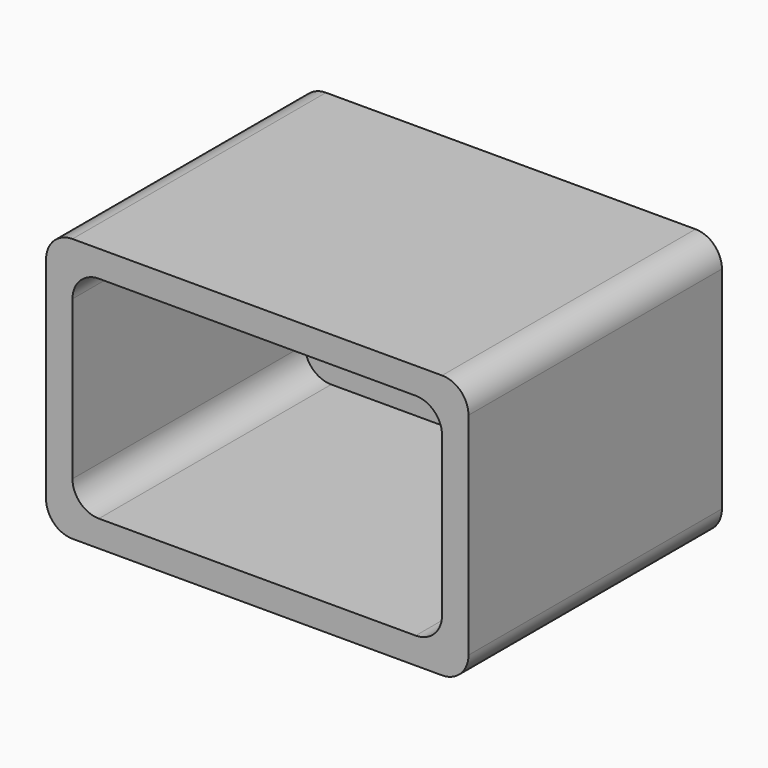
from build123d import *

# Parameters (mm, degrees)
F1_DEPTH = 76.2
F3_DEPTH = 69.85


with BuildPart() as f1:
    # F0 (on Front) → F1 (new body)
    with BuildSketch(Plane.XZ):
        with BuildLine():
            Line((19.371345, 24.161564), (-69.528655, 24.161564))
            ThreePointArc((-69.528655, 24.161564), (-74.018783, 22.301692), (-75.878655, 17.811564))
            Line((-75.878655, 17.811564), (-75.878655, -32.988436))
            ThreePointArc((-75.878655, -32.988436), (-74.018783, -37.478564), (-69.528655, -39.338436))
            Line((-69.528655, -39.338436), (19.371345, -39.338436))
            ThreePointArc((19.371345, -39.338436), (23.861473, -37.478564), (25.721345, -32.988436))
            Line((25.721345, -32.988436), (25.721345, 17.811564))
            ThreePointArc((25.721345, 17.811564), (23.861473, 22.301692), (19.371345, 24.161564))
        make_face()
    extrude(amount=-F1_DEPTH)

    # F2 (on face) → F3 (cut)
    with BuildSketch(Plane.XZ):
        with BuildLine():
            Line((13.021345, 17.811564), (-63.178655, 17.811564))
            ThreePointArc((-63.178655, 17.811564), (-67.668783, 15.951692), (-69.528655, 11.461564))
            Line((-69.528655, 11.461564), (-69.528655, -26.638436))
            ThreePointArc((-69.528655, -26.638436), (-67.668783, -31.128564), (-63.178655, -32.988436))
            Line((-63.178655, -32.988436), (13.021345, -32.988436))
            ThreePointArc((13.021345, -32.988436), (17.511473, -31.128564), (19.371345, -26.638436))
            Line((19.371345, -26.638436), (19.371345, 11.461564))
            ThreePointArc((19.371345, 11.461564), (17.511473, 15.951692), (13.021345, 17.811564))
        make_face()
    extrude(amount=-F3_DEPTH, mode=Mode.SUBTRACT)


solid = f1.part
